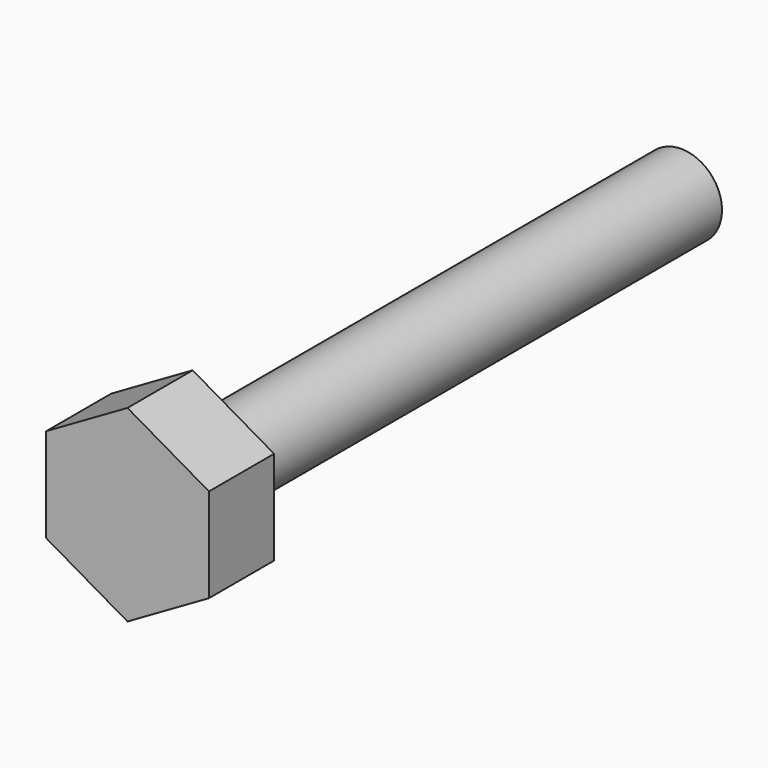
from build123d import *

# Parameters (mm, degrees)
F0_R     = 1
F1_DEPTH = 2
F2_R     = 1
F3_DEPTH = 15
F4_DEPTH = 10
F5_DEPTH = 2


with BuildPart() as f1:
    # F0 (on Front) → F1 (new body)
    with BuildSketch(Plane.XZ):
        Polygon((-2, 1.1547005384), (-2, -1.1547005384), (0, -2.3094010768), (2, -1.1547005384), (2, 1.1547005384), (0, 2.3094010768), align=None)
        Circle(F0_R, mode=Mode.SUBTRACT)
        Circle(F0_R)
    extrude(amount=F1_DEPTH)

    # F2 (on face) → F3 (join)
    with BuildSketch(Plane(origin=(0, 0, 0), x_dir=(-1, 0, 0), z_dir=(0, 1, 0))):
        Circle(F2_R)
    extrude(amount=F3_DEPTH)

    # F2 (on face) → F4 (join)
    with BuildSketch(Plane(origin=(0, 0, 0), x_dir=(-1, 0, 0), z_dir=(0, 1, 0))):
        Circle(F2_R)
    extrude(amount=F4_DEPTH)

    # F0 (on Front) → F5 (join)
    with BuildSketch(Plane.XZ):
        Polygon((-2, 1.1547005384), (-2, -1.1547005384), (0, -2.3094010768), (2, -1.1547005384), (2, 1.1547005384), (0, 2.3094010768), align=None)
        Circle(F0_R, mode=Mode.SUBTRACT)
    extrude(amount=F5_DEPTH)


solid = f1.part
